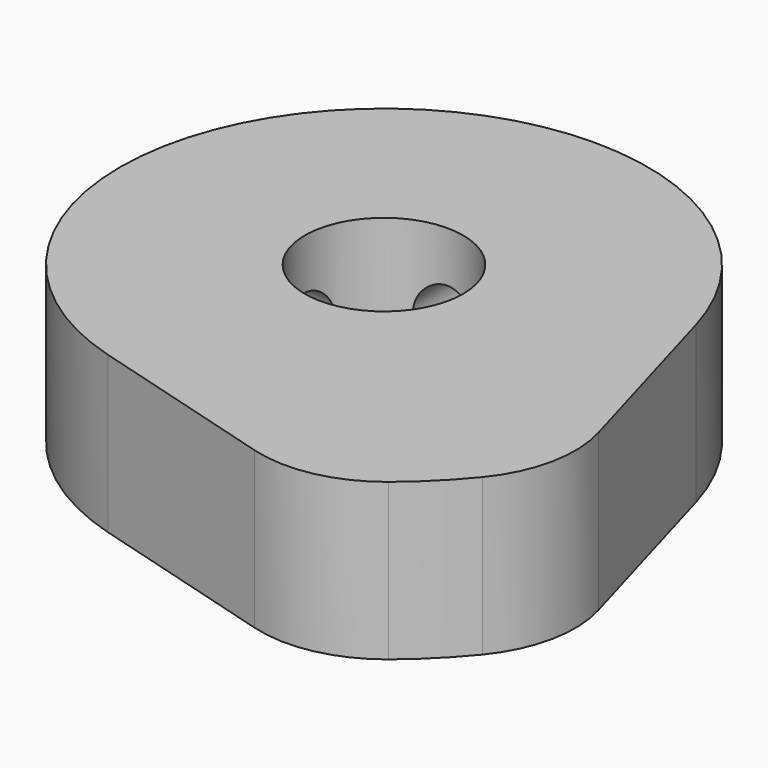
from build123d import *

# Parameters (mm, degrees)
F0_R     = 2.38125
F1_DEPTH = 4.699
F4_D     = 1.778
F4_DEPTH = 8.4790642857
F4_START = 0.3420412
F4_TIP   = 0.5341650903
F7_D     = 1.778
F7_DEPTH = 8.4836
F7_START = 1.0024412
F7_TIP   = 0.5341650903


with BuildPart() as f1:
    # F0 (on Top) → F1 (new body)
    with BuildSketch(Plane.XY):
        with BuildLine():
            Line((9.2692313585, -3.5287562996), (7.6300147115, 2.1878715118))
            ThreePointArc((7.6300147115, 2.1878715118), (-5.6126600757, 5.6126600757), (-2.1878715118, -7.6300147115))
            Line((-2.1878715118, -7.6300147115), (3.5287562996, -9.2692313585))
            ThreePointArc((3.5287562996, -9.2692313585), (5.346264103, -9.3387548259), (6.9889002175, -8.5577844533))
            ThreePointArc((6.9889002175, -8.5577844533), (7.8128228253, -7.8128228253), (8.5577844533, -6.9889002175))
            ThreePointArc((8.5577844533, -6.9889002175), (9.3387548259, -5.346264103), (9.2692313585, -3.5287562996))
        make_face()
        Circle(F0_R, mode=Mode.SUBTRACT)
    extrude(amount=F1_DEPTH)

    # F4
    # its depths count from where the whole tool has entered the part; down to there all is cleared
    with Locations(Plane(origin=(-8.2296, 0, 0), x_dir=(0, 1, 0), z_dir=(-1, 0, 0)).offset(-F4_START)):
        with Locations((0, -2.286)):
            Hole(F4_D / 2, depth=F4_DEPTH)
            with Locations((0, 0, -(F4_DEPTH + F4_TIP / 2))):  # 118° drill point
                Cone(0, F4_D / 2, F4_TIP, mode=Mode.SUBTRACT)

    # F7
    # its depths count from where the whole tool has entered the part; down to there all is cleared
    with Locations(Plane(origin=(0, 8.89, 0), x_dir=(1, 0, 0), z_dir=(0, 1, 0)).offset(-F7_START)):
        with Locations((0, -2.286)):
            Hole(F7_D / 2, depth=F7_DEPTH)
            with Locations((0, 0, -(F7_DEPTH + F7_TIP / 2))):  # 118° drill point
                Cone(0, F7_D / 2, F7_TIP, mode=Mode.SUBTRACT)


solid = f1.part
